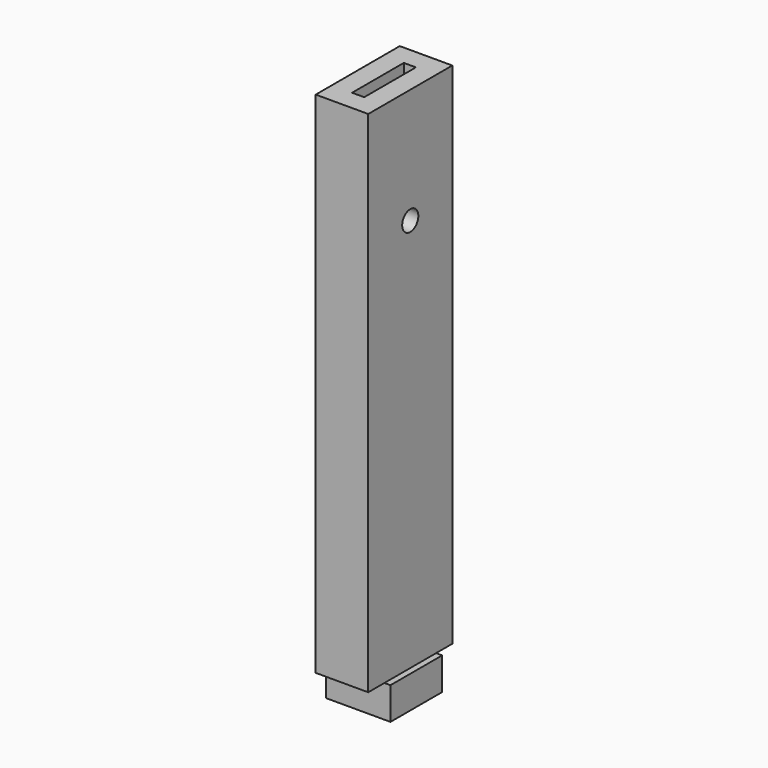
from build123d import *

# Parameters (mm, degrees)
SKETCH002_W       = 13
SKETCH002_H       = 26
SKETCH002_W_2     = 3
SKETCH002_H_2     = 16
PAD002_DEPTH      = 36
CYLINDER002_R     = 2.5
CYLINDER002_DEPTH = 14
SKETCH003_W       = 26
SKETCH003_H       = 13
PAD003_DEPTH      = 90
SKETCH004_W       = 16
SKETCH004_H       = 16
PAD004_DEPTH      = 8
CYLINDER003_R     = 2
CYLINDER003_DEPTH = 15


with BuildPart() as part:
    # Sketch002 → Pad002 (new body)
    with BuildSketch(Plane.XY):
        with Locations((1, 0)):
            Rectangle(SKETCH002_W, SKETCH002_H)
        with Locations((1, 0)):
            Rectangle(SKETCH002_W_2, SKETCH002_H_2, mode=Mode.SUBTRACT)
    extrude(amount=-PAD002_DEPTH)

    # Cylinder002 → Cylinder002 (cut)
    with BuildSketch(Plane(origin=(-6, 0, -28.5), x_dir=(0, 1, 0), z_dir=(1, 0, 0))):
        Circle(CYLINDER002_R)
    extrude(amount=CYLINDER002_DEPTH, mode=Mode.SUBTRACT)

    # Sketch003 (on Face4 of Cylinder002) → Pad003 (join)
    with BuildSketch(Plane(origin=(-6, 0, -36), x_dir=(0, 1, 0), z_dir=(0, 0, -1))):
        with Locations((0, 7)):
            Rectangle(SKETCH003_W, SKETCH003_H)
    extrude(amount=PAD003_DEPTH)

    # Sketch004 (on Face14 of Pad003) → Pad004 (join)
    with BuildSketch(Plane(origin=(-6, 0, -126), x_dir=(0, 1, 0), z_dir=(0, 0, -1))):
        with Locations((0, 7)):
            Rectangle(SKETCH004_W, SKETCH004_H)
    extrude(amount=PAD004_DEPTH)

    # Cylinder003 → Cylinder003 (cut)
    with BuildSketch(Plane(origin=(1, 0, -134), x_dir=(1, 0, 0), z_dir=(0, 0, 1))):
        Circle(CYLINDER003_R)
    extrude(amount=CYLINDER003_DEPTH, mode=Mode.SUBTRACT)


with BuildPart() as part_1:
    # Body002 placement: moved
    add(part.part.moved(Location((0, 0, -66))))


solid = part_1.part
